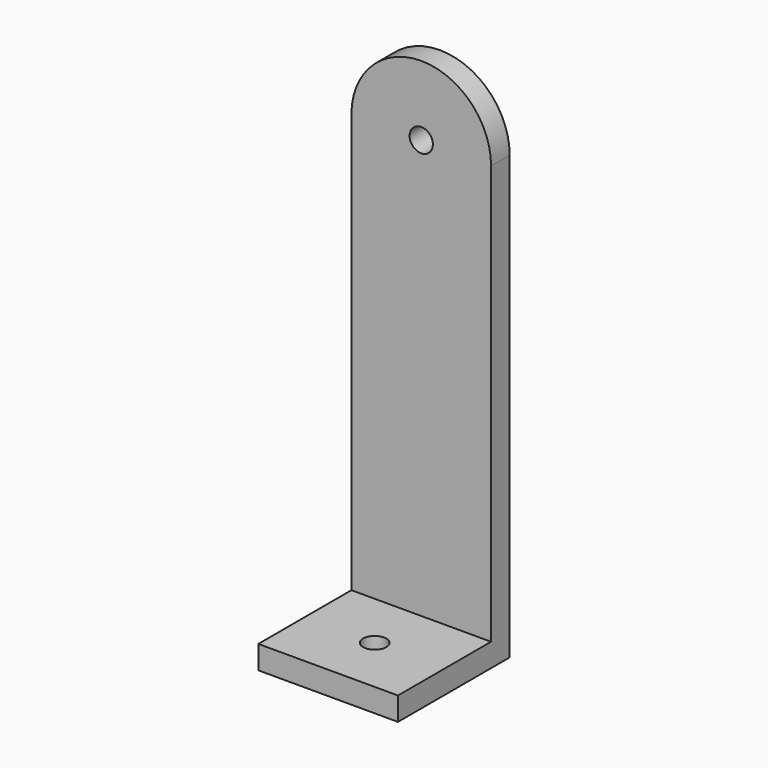
from build123d import *

# Parameters (mm, degrees)
F0_R     = 2.5
F1_DEPTH = 2.5
F2_W     = 30
F2_H     = 5
F3_DEPTH = 25
F4_R     = 2.5
F5_DEPTH = 5


with BuildPart() as f1:
    # F0 (on Front) → F1 (new body, symmetric)
    with BuildSketch(Plane.XZ):
        with BuildLine():
            Line((-15, 47.5), (-15, -47.5))
            Line((-15, -47.5), (15, -47.5))
            Line((15, -47.5), (15, 47.5))
            ThreePointArc((15, 47.5), (0, 62.5), (-15, 47.5))
        make_face()
        with Locations((0, 47.5)):
            Circle(F0_R, mode=Mode.SUBTRACT)
    extrude(amount=F1_DEPTH, both=True)

    # F2 (on face) → F3 (join)
    with BuildSketch(Plane.XZ.offset(2.5)):
        with Locations((0, -45)):
            Rectangle(F2_W, F2_H)
    extrude(amount=F3_DEPTH)

    # F4 (on face) → F5 (cut, through all)
    with BuildSketch(Plane.XY.offset(-42.5)):
        with Locations((0, -15)):
            Circle(F4_R)
    extrude(amount=-F5_DEPTH, mode=Mode.SUBTRACT)


solid = f1.part
